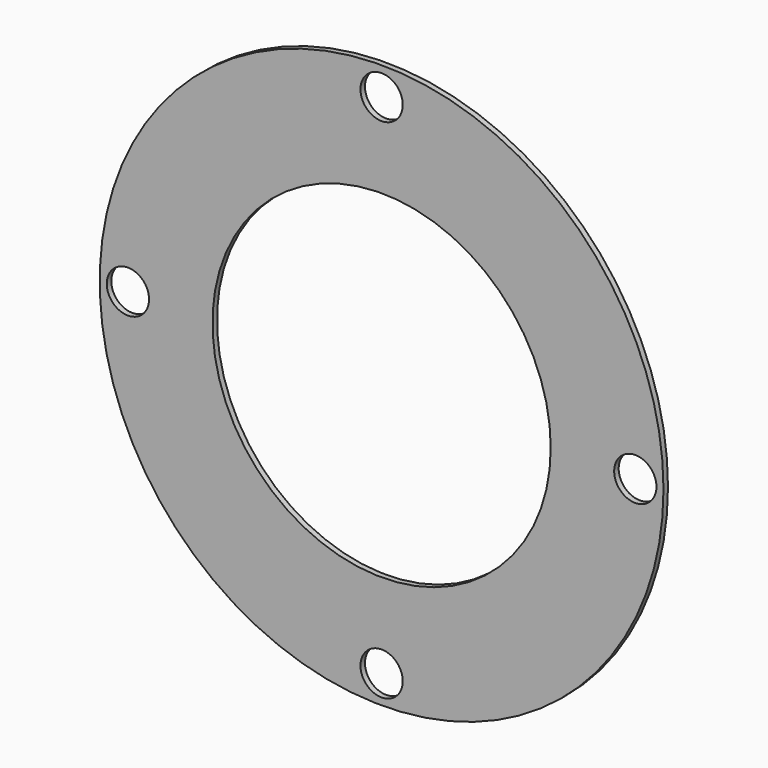
from build123d import *

# Parameters (mm, degrees)
F0_R     = 12.7
F0_R_2   = 7.62
F1_DEPTH = 0.254
F2_R     = 0.9525
F3_DEPTH = 25.4


with BuildPart() as f1:
    # F0 (on Front) → F1 (new body)
    with BuildSketch(Plane.XZ):
        Circle(F0_R)
        Circle(F0_R_2, mode=Mode.SUBTRACT)
    extrude(amount=F1_DEPTH)

    # F2 (on face) → F3 (cut)
    with BuildSketch(Plane.XZ.offset(0.254)):
        with Locations((0, 11.43)):
            Circle(F2_R)
        with Locations((11.43, 0)):
            Circle(F2_R)
        with Locations((0, -11.43)):
            Circle(F2_R)
        with Locations((-11.43, 0)):
            Circle(F2_R)
    extrude(amount=-F3_DEPTH, mode=Mode.SUBTRACT)


solid = f1.part
